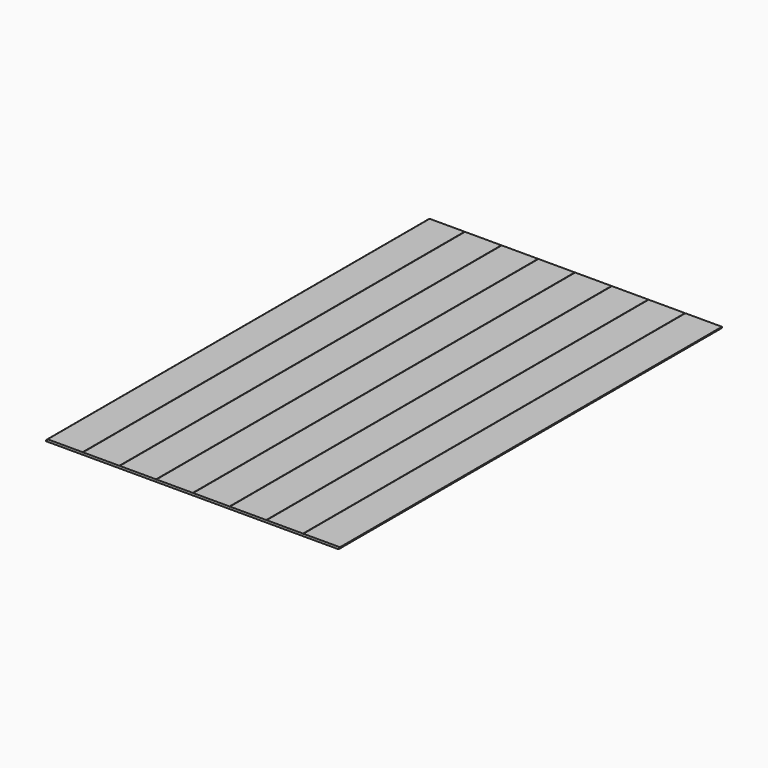
from build123d import *

# Parameters (mm, degrees)
F0_W     = 1219.2
F0_H     = 2435.225
F1_DEPTH = 4.7625
F2_W     = 6.35
F2_H     = 4.7625
F3_DEPTH = 2435.226
F4_W     = 1.5875
F4_H     = 1.5875
F5_DEPTH = 2435.226
F6_W     = 454.025
F6_H     = 9.525
F7_DEPTH = 1219.201


with BuildPart() as f1:
    # F0 (on Top) → F1 (new body, symmetric)
    with BuildSketch(Plane.XY):
        with Locations((0, 693.83302)):
            Rectangle(F0_W, F0_H)
    extrude(amount=F1_DEPTH, both=True)

    # F2 (on face) → F3 (cut, through all)
    with BuildSketch(Plane.XZ.offset(523.77948)):
        with Locations((606.425, -2.38125)):
            Rectangle(F2_W, F2_H)
        with Locations((-606.425, 2.38125)):
            Rectangle(F2_W, F2_H)
    extrude(amount=-F3_DEPTH, mode=Mode.SUBTRACT)

    # F4 (on face) → F5 (cut, through all)
    with BuildSketch(Plane.XZ.offset(523.77948)):
        with Locations((-457.2, 3.96875)):
            Rectangle(F4_W, F4_H)
        with Locations((-304.8, 3.96875)):
            Rectangle(F4_W, F4_H)
        with Locations((-152.4, 3.96875)):
            Rectangle(F4_W, F4_H)
        with Locations((0, 3.96875)):
            Rectangle(F4_W, F4_H)
        with Locations((152.4, 3.96875)):
            Rectangle(F4_W, F4_H)
        with Locations((304.8, 3.96875)):
            Rectangle(F4_W, F4_H)
        with Locations((457.2, 3.96875)):
            Rectangle(F4_W, F4_H)
    extrude(amount=-F5_DEPTH, mode=Mode.SUBTRACT)

    # F6 (on face) → F7 (cut, through all)
    with BuildSketch(Plane(origin=(-609.6, 0, 0), x_dir=(0, -1, 0), z_dir=(-1, 0, 0))):
        with Locations((-1684.43302, 0)):
            Rectangle(F6_W, F6_H)
    extrude(amount=-F7_DEPTH, mode=Mode.SUBTRACT)


solid = f1.part
